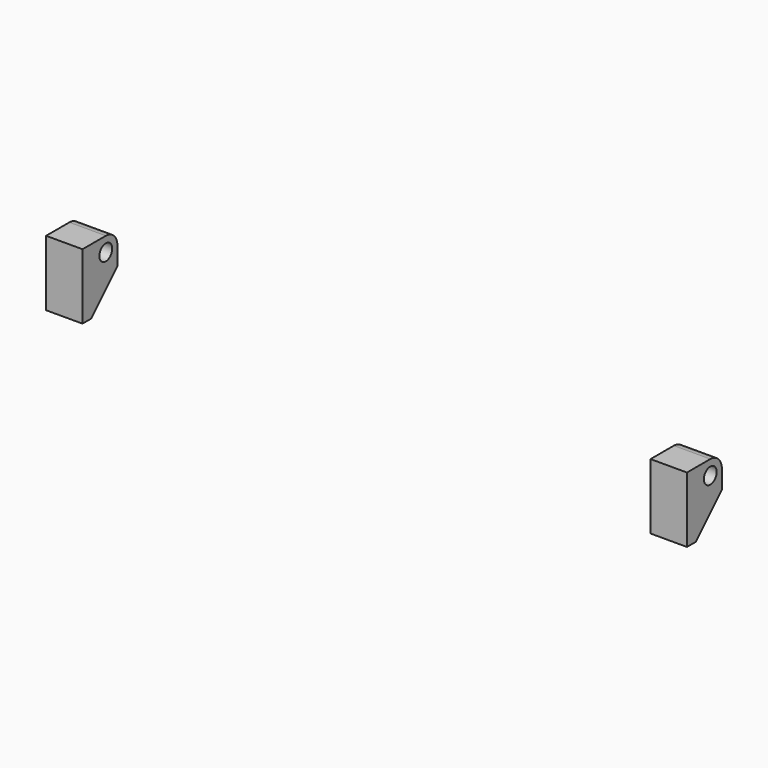
from build123d import *

# Parameters (mm, degrees)
CYLINDER043_R         = 1.1
CYLINDER043_DEPTH     = 10
BOX027_W              = 5
BOX027_H              = 6
BOX027_DEPTH          = 9
FILLET004_R           = 2
CHAMFER011015006_SIZE = 4.5
CYLINDER042_R         = 1.1
CYLINDER042_DEPTH     = 10
BOX026_W              = 5
BOX026_H              = 6
BOX026_DEPTH          = 9
FILLET_R              = 2
CHAMFER011015005_SIZE = 4.5


with BuildPart() as cylinder043:
    # Cylinder043 → Cylinder043 (new body)
    with BuildSketch(Plane(origin=(47, 17, 27), x_dir=(0, 0, 1), z_dir=(-1, 0, 0))):
        Circle(CYLINDER043_R)
    extrude(amount=CYLINDER043_DEPTH)


with BuildPart() as cut025002009003:
    # Box027 → Box027 (new body)
    with BuildSketch(Plane(origin=(39, 13, 20), x_dir=(1, 0, 0), z_dir=(0, 0, 1))):
        with Locations((2.5, 3)):
            Rectangle(BOX027_W, BOX027_H)
    extrude(amount=BOX027_DEPTH)

    # Fillet004
    fillet004_edges = [cut025002009003.edges().sort_by_distance(p)[0] for p in [
        (41.5, 19, 29),
    ]]
    fillet(fillet004_edges, radius=FILLET004_R)

    # Chamfer011015006
    chamfer011015006_edges = [cut025002009003.edges().sort_by_distance(p)[0] for p in [
        (41.5, 19, 20),
    ]]
    chamfer(chamfer011015006_edges, length=CHAMFER011015006_SIZE)

    # Cut025002009003: cut Cylinder043
    add(cylinder043.part, mode=Mode.SUBTRACT)


with BuildPart() as cylinder042:
    # Cylinder042 → Cylinder042 (new body)
    with BuildSketch(Plane(origin=(-37, 17, 27), x_dir=(0, 0, 1), z_dir=(-1, 0, 0))):
        Circle(CYLINDER042_R)
    extrude(amount=CYLINDER042_DEPTH)


with BuildPart() as fusion011010:
    # Box026 → Box026 (new body)
    with BuildSketch(Plane(origin=(-44, 13, 20), x_dir=(1, 0, 0), z_dir=(0, 0, 1))):
        with Locations((2.5, 3)):
            Rectangle(BOX026_W, BOX026_H)
    extrude(amount=BOX026_DEPTH)

    # Fillet
    fillet_edges = [fusion011010.edges().sort_by_distance(p)[0] for p in [
        (-41.5, 19, 29),
    ]]
    fillet(fillet_edges, radius=FILLET_R)

    # Chamfer011015005
    chamfer011015005_edges = [fusion011010.edges().sort_by_distance(p)[0] for p in [
        (-41.5, 19, 20),
    ]]
    chamfer(chamfer011015005_edges, length=CHAMFER011015005_SIZE)

    # Cut025002009002: cut Cylinder042
    add(cylinder042.part, mode=Mode.SUBTRACT)

    # Fusion011010: union Cut025002009003
    add(cut025002009003.part)


solid = fusion011010.part
